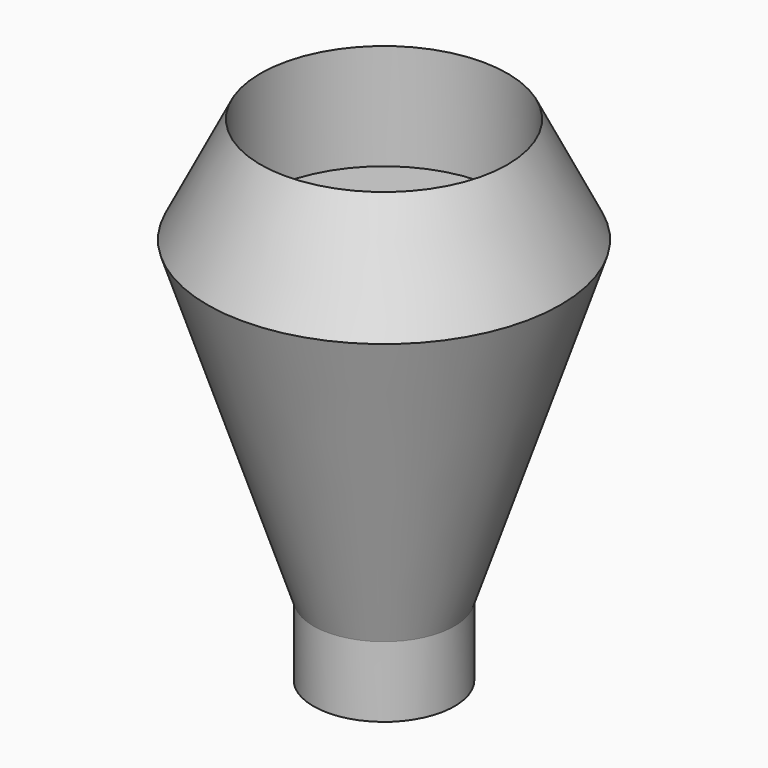
from build123d import *

# Parameters (mm, degrees)
F0_R      = 6.35
F1_DEPTH  = 6.35
F2_R      = 15.875
F3_DEPTH  = 44.45
F4_SIZE   = 5.08
F5_SIZE   = 5.08
F6_R      = 10.6348002919
F7_DEPTH  = 6.35
F8_R      = 4.7625
F9_DEPTH  = 31.75
F11_R     = 6.35
F12_DEPTH = 6.35
F13_R     = 6.35
F14_DEPTH = 31.75
F15_R     = 15.875
F16_DEPTH = 6.35
F20_R     = 11.1125
F21_DEPTH = 9.525
F22_R     = 4.7625
F23_DEPTH = 31.75


with BuildPart() as f1:
    # F0 (on Top) → F1 (new body)
    with BuildSketch(Plane.XY):
        with Locations((-69.4737806916, -28.0783642083)):
            Circle(F0_R)
    extrude(amount=F1_DEPTH)

    # F2 (on face) → F3 (join)
    with BuildSketch(Plane.XY.offset(6.35)):
        with Locations((-69.4737806916, -28.0783642083)):
            Circle(F2_R)
    extrude(amount=F3_DEPTH)

    # F4
    f4_edges = [f1.edges().sort_by_distance(p)[0] for p in [
        (-53.598781, -28.078364, 28.575),
        (-85.348781, -28.078364, 6.35),
        (-85.348781, -28.078364, 50.8),
    ]]
    chamfer(f4_edges, length=F4_SIZE)

    # F5
    f5_edges = [f1.edges().sort_by_distance(p)[0] for p in [
        (-53.598781, -28.078364, 28.575),
        (-85.348781, -28.078364, 11.43),
        (-85.348781, -28.078364, 45.72),
    ]]
    chamfer(f5_edges, length=F5_SIZE)

    # F6 (on face) → F7 (cut)
    with BuildSketch(Plane.XY.offset(50.8)):
        with Locations((-69.4737806916, -28.0783642083)):
            Circle(F6_R)
    extrude(amount=-F7_DEPTH, mode=Mode.SUBTRACT)

    # F8 (on face) → F9 (cut)
    with BuildSketch(Plane.XY.offset(44.45)):
        with Locations((-69.4737806916, -28.0783642083)):
            Circle(F8_R)
    extrude(amount=-F9_DEPTH, mode=Mode.SUBTRACT)


with BuildPart() as f12:
    # F11 (on Top) → F12 (new body)
    with BuildSketch(Plane.XY):
        with Locations((-63.7479051948, -45.2827736735)):
            Circle(F11_R)
    extrude(amount=F12_DEPTH)

    # F13 (on face) → F14 (join)
    with BuildSketch(Plane.XY.offset(6.35)):
        with Locations((-63.7479051948, -45.2827736735)):
            Circle(F13_R)
    extrude(amount=F14_DEPTH)

    # F15 (on face) → F16 (join)
    with BuildSketch(Plane.XY.offset(38.1)):
        with Locations((-63.7479051948, -45.2827736735)):
            Circle(F15_R)
    extrude(amount=F16_DEPTH)


with BuildPart() as f18:
    # F17 (on Front) → F18 (revolve)
    with BuildSketch(Plane.XZ):
        Polygon((28.1351623714, 49.0950892346), (23.3591329306, 39.5371243358), (32.8976623714, 10.9950892346), (32.8976623714, 4.6450892346), (39.2476623714, 4.6450892346), (39.2476623714, 49.0950892346), align=None)
    revolve(axis=Axis((39.2476623714, 0, 26.8700892346), (0, 0, 1)))

    # F20 (on face) → F21 (cut)
    with BuildSketch(Plane.XY.offset(49.0950892346)):
        with Locations((39.2476623714, 0)):
            Circle(F20_R)
    extrude(amount=-F21_DEPTH, mode=Mode.SUBTRACT)

    # F22 (on face) → F23 (cut)
    with BuildSketch(Plane.XY.offset(39.5700892346)):
        with Locations((39.2476623714, 0)):
            Circle(F22_R)
    extrude(amount=-F23_DEPTH, mode=Mode.SUBTRACT)


solid = f18.part
